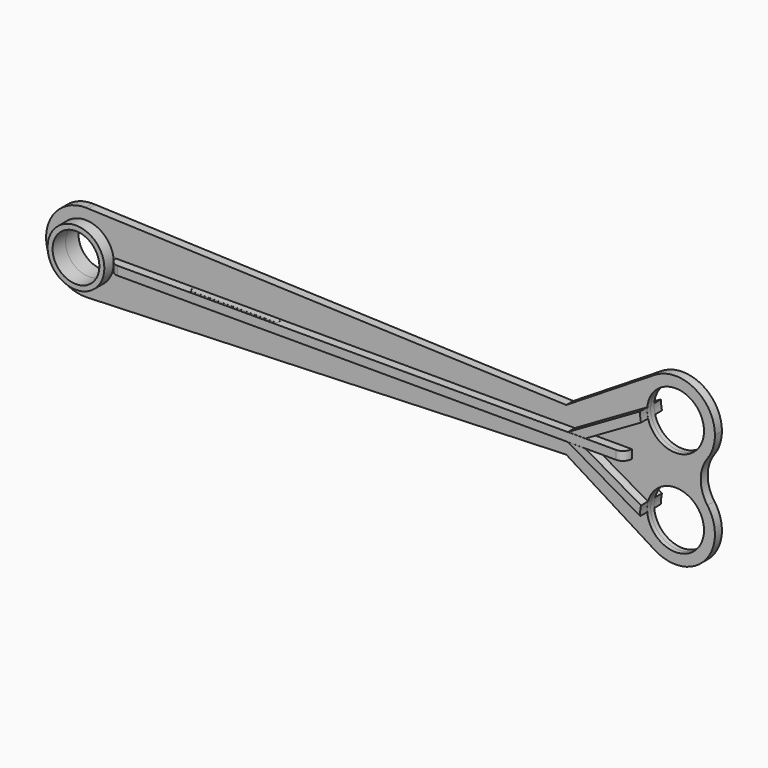
from build123d import *

# Parameters (mm, degrees)
F0_R          = 32.5
F0_W          = 100.1
F0_H          = 10.1
F1_DEPTH      = 5
F1_DEPTH_BACK = 5
F2_W          = 100
F2_H          = 17.5
F2_H_2        = 15.1
F3_DEPTH      = 5
F3_DEPTH_BACK = 5
F5_DEPTH      = 10
F7_R          = 32.45
F7_R_2        = 26.75
F8_DEPTH      = 18.5
F8_DEPTH_BACK = 18.5


with BuildPart() as f1:
    # F0 (on Front) → F1 (new body, two sides)
    with BuildSketch(Plane.XZ) as f1_sk:
        with BuildLine():
            ThreePointArc((1.637721, -44.970189), (32.393652, -31.235417), (45, 0))
            ThreePointArc((45, 0), (32.955108, 30.642469), (3.268405, 44.881149))
            Line((3.268405, 44.881149), (0, 45))
            ThreePointArc((0, 45), (-44.992547, -0.818996), (1.637721, -44.970189))
        make_face()
        Circle(F0_R, mode=Mode.SUBTRACT)
        with BuildLine():
            ThreePointArc((3.268405, 44.881149), (32.955108, 30.642469), (45, 0))
            ThreePointArc((45, 0), (32.393652, -31.235417), (1.637721, -44.970189))
            Line((1.637721, -44.970189), (550, -25))
            Line((550, -25), (651.16602, -88.169902))
            ThreePointArc((651.16602, -88.169902), (707.924431, -80.675427), (711.391042, -23.529412))
            ThreePointArc((711.391042, -23.529412), (703.738635, 0), (711.391042, 23.529412))
            ThreePointArc((711.391042, 23.529412), (642.075569, 19.324573), (651.16602, 88.169902))
            Line((651.16602, 88.169902), (550, 25))
            Line((550, 25), (3.268405, 44.881149))
        make_face()
        with Locations((175, 0)):
            Rectangle(F0_W, F0_H, mode=Mode.SUBTRACT)
        with Locations((675, -50)):
            Circle(F0_R, mode=Mode.SUBTRACT)
        with Locations((375, 0)):
            Rectangle(F0_W, F0_H, mode=Mode.SUBTRACT)
        with BuildLine():
            Line((0, 45), (3.268405, 44.881149))
            ThreePointArc((3.268405, 44.881149), (1.635283, 44.970277), (0, 45))
        make_face()
        with BuildLine():
            ThreePointArc((720, 50), (696.822819, 89.354346), (651.16602, 88.169902))
            ThreePointArc((651.16602, 88.169902), (642.075569, 19.324573), (711.391042, 23.529412))
            ThreePointArc((711.391042, 23.529412), (717.793673, 36.08233), (720, 50))
        make_face()
        with Locations((675, 50)):
            Circle(F0_R, mode=Mode.SUBTRACT)
    extrude(amount=F1_DEPTH)
    extrude(f1_sk.sketch, amount=-F1_DEPTH_BACK)


with BuildPart() as f3:
    # F2 (on Top) → F3 (new body, two sides)
    with BuildSketch(Plane.XY) as f3_sk:
        with BuildLine():
            Line((615, 15.05), (45, 15.05))
            ThreePointArc((45, 15.05), (37.928932, 12.121068), (35, 5.05))
            Line((35, 5.05), (125, 5.05))
            Line((125, 5.05), (225, 5.05))
            Line((225, 5.05), (324.9, 5.05))
            Line((324.9, 5.05), (324.9, 10.15))
            Line((324.9, 10.15), (425.1, 10.15))
            Line((425.1, 10.15), (425.1, 5.05))
            Line((425.1, 5.05), (625, 5.05))
            ThreePointArc((625, 5.05), (622.071068, 12.121068), (615, 15.05))
        make_face()
        with Locations((175, -3.7)):
            Rectangle(F2_W, F2_H)
        with BuildLine():
            ThreePointArc((35, -5.05), (37.928932, -12.121068), (45, -15.05))
            Line((45, -15.05), (615, -15.05))
            ThreePointArc((615, -15.05), (622.071068, -12.121068), (625, -5.05))
            Line((625, -5.05), (425, -5.05))
            Line((425, -5.05), (325, -5.05))
            Line((325, -5.05), (225.05, -5.05))
            Line((225.05, -5.05), (225.05, -12.55))
            Line((225.05, -12.55), (124.95, -12.55))
            Line((124.95, -12.55), (124.95, -5.05))
            Line((124.95, -5.05), (35, -5.05))
        make_face()
        with Locations((375, 2.5)):
            Rectangle(F2_W, F2_H_2)
    extrude(amount=F3_DEPTH)
    extrude(f3_sk.sketch, amount=-F3_DEPTH_BACK)


with BuildPart() as f5:
    # F4 (on face) → F5 (new body)
    with BuildSketch(Plane(origin=(0, 5, 0), x_dir=(-1, 0, 0), z_dir=(0, 1, 0))):
        with BuildLine():
            Line((-580, -5.1), (-643.463602, -41.740728))
            ThreePointArc((-643.463602, -41.740728), (-642.520462, -47.200068), (-642.515374, -52.740274))
            Line((-642.515374, -52.740274), (-560, -5.1))
            Line((-560, -5.1), (-580, -5.1))
        make_face()
        with BuildLine():
            Line((-643.463602, 41.740728), (-580, 5.1))
            Line((-580, 5.1), (-560, 5.1))
            Line((-560, 5.1), (-642.515374, 52.740274))
            ThreePointArc((-642.515374, 52.740274), (-642.520462, 47.200068), (-643.463602, 41.740728))
        make_face()
    extrude(amount=F5_DEPTH)


with BuildPart() as f6_1:
    # F6: instance of F5
    add(f5.part.mirror(Plane.XZ))


with BuildPart() as f8:
    # F7 (on Front) → F8 (new body, two sides)
    with BuildSketch(Plane.XZ) as f8_sk:
        Circle(F7_R)
        Circle(F7_R_2, mode=Mode.SUBTRACT)
    extrude(amount=F8_DEPTH)
    extrude(f8_sk.sketch, amount=-F8_DEPTH_BACK)


solid = Compound([f1.part, f3.part, f5.part, f6_1.part, f8.part])
